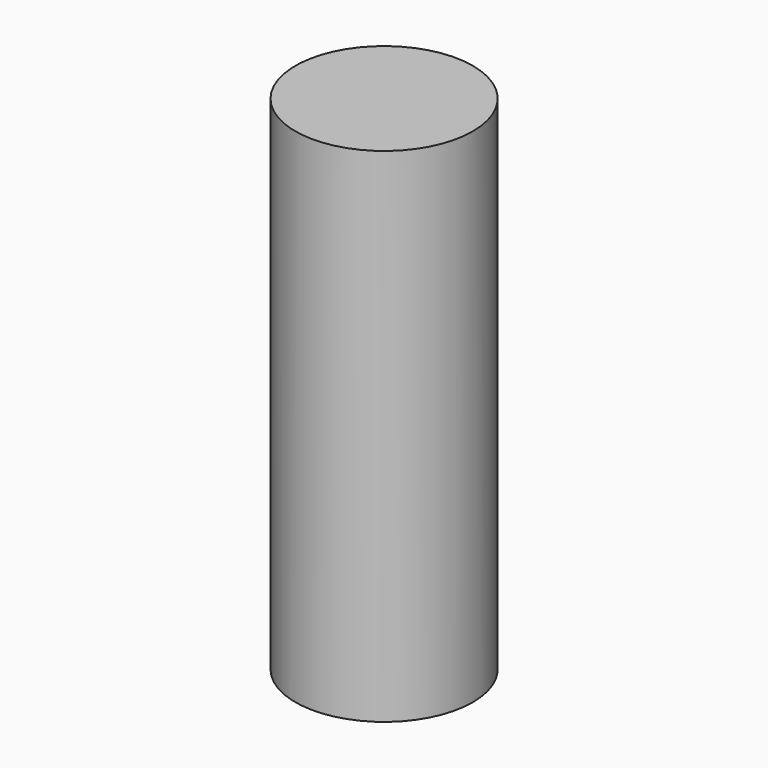
from build123d import *

# Parameters (mm, degrees)
CYLINDER_R     = 2.64795
CYLINDER_DEPTH = 15


with BuildPart() as part:
    # Cylinder → Cylinder (new body)
    with BuildSketch(Plane.XY.offset(-2.5)):
        Circle(CYLINDER_R)
    extrude(amount=CYLINDER_DEPTH)


solid = part.part
